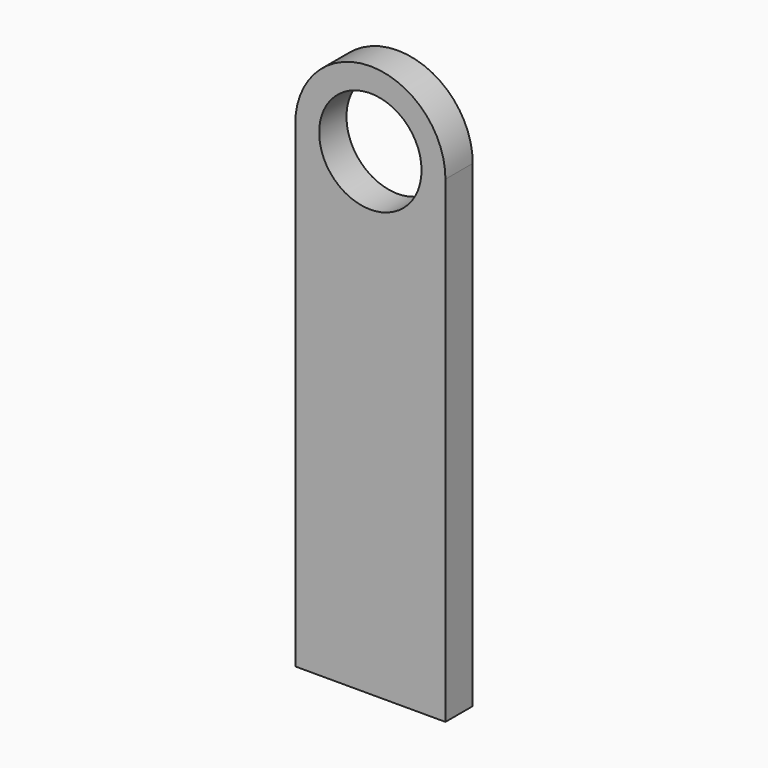
from build123d import *

# Parameters (mm, degrees)
F0_R     = 7.5
F1_DEPTH = 5
F3_DEPTH = 2.5


with BuildPart() as f1:
    # F0 (on Front) → F1 (new body)
    with BuildSketch(Plane.XZ):
        with BuildLine():
            Line((-22, 70), (-22, 0))
            Line((-22, 0), (0, 0))
            Line((0, 0), (0, 70))
            ThreePointArc((0, 70), (-11, 81), (-22, 70))
        make_face()
        with Locations((-11, 70)):
            Circle(F0_R, mode=Mode.SUBTRACT)
    extrude(amount=F1_DEPTH)

    # F2 (on Front) → F3 (cut)
    with BuildSketch(Plane.XZ):
        Polygon((-8.881628, 59.702028), (-13.54115, 59.702028), (-13.54115, 54.768417), (-19.022942, 54.768417), (-19.022942, 51.205251), (-13.54115, 51.205251), (-13.54115, 41.612115), (-8.881628, 41.612115), (-8.881628, 51.205251), (-3.399835, 51.205251), (-3.399835, 54.768417), (-8.881628, 54.768417), align=None)
    extrude(amount=F3_DEPTH, mode=Mode.SUBTRACT)


solid = f1.part
